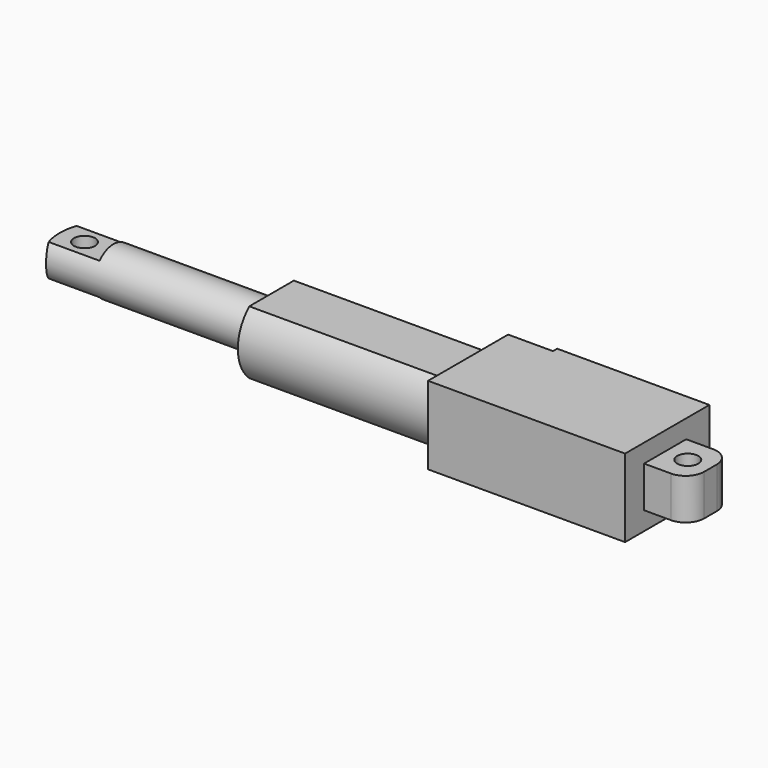
from build123d import *

# Parameters (mm, degrees)
PAD001_DEPTH = 14.8
SKETCH004_R  = 2
PAD002_DEPTH = 7.8
PAD003_DEPTH = 37.3
SKETCH008_R  = 4.5
PAD004_DEPTH = 30
PAD005_DEPTH = 11
SKETCH007_R  = 2
POCKET_DEPTH = 14.801


with BuildPart() as part:
    # Sketch003 → Pad001 (new body)
    with BuildSketch(Plane.XY):
        Polygon((0, 0), (37.4, 0), (37.4, 20), (8.5, 20), (8.5, 19), (0, 19), align=None)
    extrude(amount=PAD001_DEPTH)

    # Sketch004 → Pad002 (join)
    with BuildSketch(Plane.XY.offset(3.5)):
        with BuildLine():
            Line((37.4, 14.5), (42.5, 14.5))
            ThreePointArc((46, 11), (44.9748737342, 13.4748737342), (42.5, 14.5))
            Line((46, 11), (46, 8))
            ThreePointArc((42.5, 4.5), (44.9748737342, 5.5251262658), (46, 8))
            Line((42.5, 4.5), (37.4, 4.5))
            Line((37.4, 4.5), (37.4, 14.5))
        make_face()
        with Locations((41.7, 9.5)):
            Circle(SKETCH004_R, mode=Mode.SUBTRACT)
    extrude(amount=PAD002_DEPTH)

    # Sketch005 → Pad003 (join)
    with BuildSketch(Plane(origin=(0, 0, 0), x_dir=(0, -1, 0), z_dir=(-1, 0, 0))):
        with BuildLine():
            Line((-4.2084973779, 13.4), (-14.7915026221, 13.4))
            ThreePointArc((-14.7915026221, 13.4), (-17.5, 7.4), (-14.7915026221, 1.4))
            Line((-14.7915026221, 1.4), (-4.2084973779, 1.4))
            ThreePointArc((-4.2084973779, 1.4), (-1.5, 7.4), (-4.2084973779, 13.4))
        make_face()
    extrude(amount=PAD003_DEPTH)

    # Sketch008 (on Face17 of Pad003) → Pad004 (join)
    with BuildSketch(Plane(origin=(-37.3, 0, 0), x_dir=(0, -1, 0), z_dir=(-1, 0, 0))):
        with Locations((-9.5, 7.4)):
            Circle(SKETCH008_R)
    extrude(amount=PAD004_DEPTH)

    # Sketch006 (on Face17 of Pad003) → Pad005 (join)
    with BuildSketch(Plane(origin=(-67.3, 0, 0), x_dir=(0, -1, 0), z_dir=(-1, 0, 0))):
        with BuildLine():
            Line((-6.1912993487, 10.45), (-12.8087006513, 10.45))
            ThreePointArc((-12.8087006513, 10.45), (-14, 7.4), (-12.8087006513, 4.35))
            Line((-12.8087006513, 4.35), (-6.1912993487, 4.35))
            ThreePointArc((-6.1912993487, 4.35), (-5, 7.4), (-6.1912993487, 10.45))
        make_face()
    extrude(amount=PAD005_DEPTH)

    # Sketch007 → Pocket (cut, through all)
    with BuildSketch(Plane.XY):
        with Locations((-72.8, 9.5)):
            Circle(SKETCH007_R)
        with BuildLine():
            ThreePointArc((-76.5, 14), (-77.5, 9.5), (-76.5, 5))
            Line((-86.5, 5), (-76.5, 5))
            Line((-86.5, 14), (-86.5, 5))
            Line((-76.5, 14), (-86.5, 14))
        make_face()
    extrude(amount=POCKET_DEPTH, mode=Mode.SUBTRACT)


with BuildPart() as part_1:
    # Body002 placement: moved
    add(part.part.moved(Location((-41.7, -9.5, 0))))


solid = part_1.part
